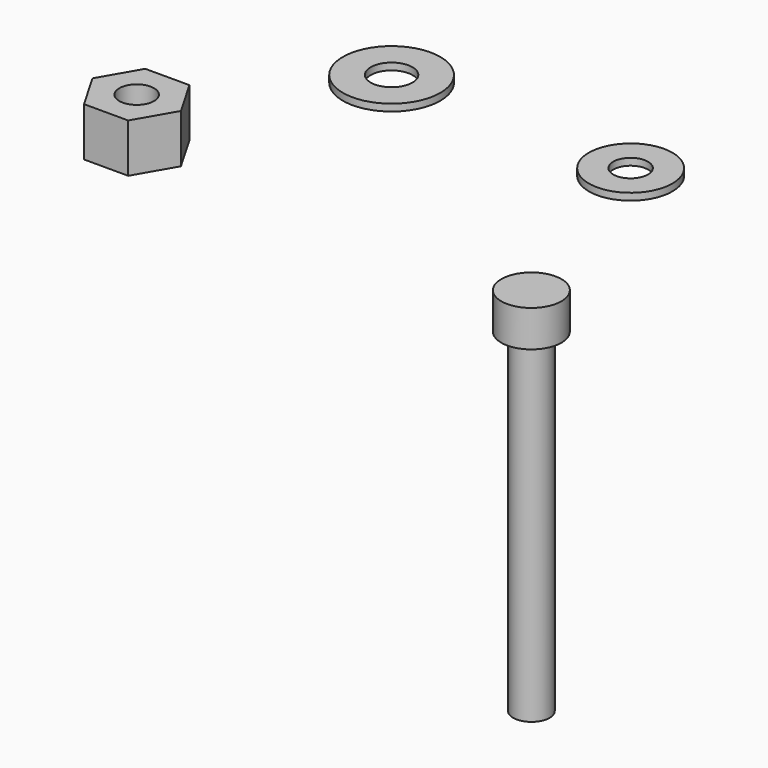
from build123d import *

# Parameters (mm, degrees)
F0_W     = 2.0828
F0_H     = 38.1
F2_R     = 5.55625
F2_R_2   = 2.38125
F3_DEPTH = 0.79375
F4_R     = 4.7625
F4_R_2   = 1.984375
F5_DEPTH = 0.79375
F6_R     = 1.984375
F7_DEPTH = 5.55625


with BuildPart() as f1:
    # F0 (on Front) → F1 (revolve)
    with BuildSketch(Plane.XZ):
        with Locations((-1.0414, -19.05)):
            Rectangle(F0_W, F0_H)
        Polygon((-2.0828, 0), (0, 0), (0, 4.1656), (-3.429, 4.1656), (-3.429, 0), align=None)
    revolve(axis=Axis((0, 0, -19.05), (0, 0, -1)))


with BuildPart() as f3:
    # F2 (on Top) → F3 (new body)
    with BuildSketch(Plane.XY):
        with Locations((-39.708667, 29.707419)):
            Circle(F2_R)
        with Locations((-39.708667, 29.707419)):
            Circle(F2_R_2, mode=Mode.SUBTRACT)
    extrude(amount=F3_DEPTH)


with BuildPart() as f5:
    # F4 (on Top) → F5 (new body)
    with BuildSketch(Plane.XY):
        with Locations((-11.853334, 28.966583)):
            Circle(F4_R)
        with Locations((-11.853334, 28.966583)):
            Circle(F4_R_2, mode=Mode.SUBTRACT)
    extrude(amount=F5_DEPTH)


with BuildPart() as f7:
    # F6 (on Top) → F7 (new body)
    with BuildSketch(Plane.XY):
        Polygon((-46.819005, 9.773709), (-51.859994, 9.773709), (-54.380489, 5.408084), (-51.859994, 1.042459), (-46.819005, 1.042459), (-44.29851, 5.408084), align=None)
        with Locations((-49.339499, 5.408084)):
            Circle(F6_R, mode=Mode.SUBTRACT)
    extrude(amount=F7_DEPTH)


solid = Compound([f1.part, f3.part, f5.part, f7.part])
